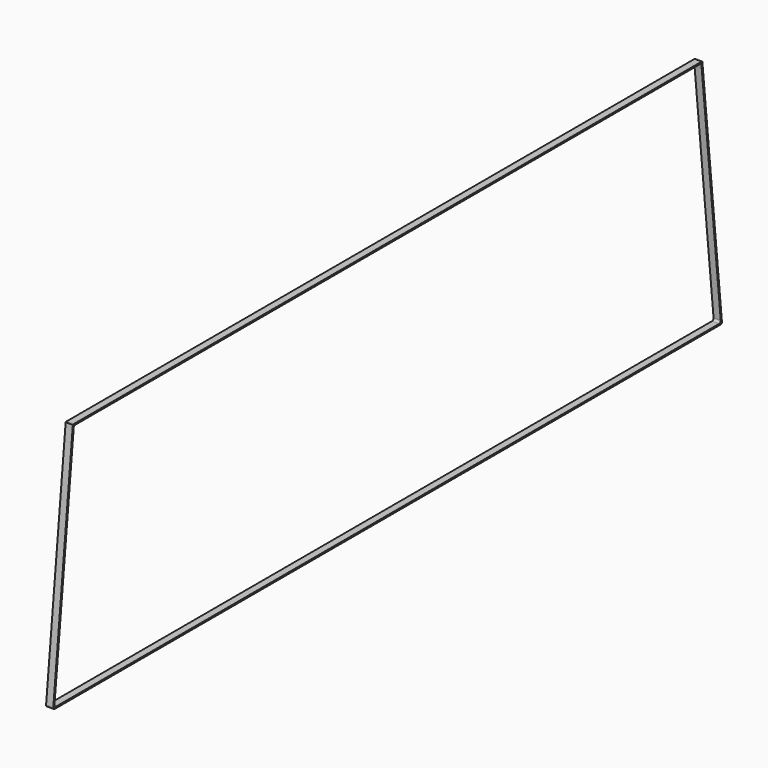
from build123d import *

# Parameters (mm, degrees)
F1_DEPTH = 10


with BuildPart() as f1:
    # F0 (on Right) → F1 (new body)
    with BuildSketch(Plane.YZ):
        with BuildLine():
            Line((0, 169.997969), (-545, 169.997969))
            ThreePointArc((-545, 169.997969), (-545.791112, 169.869496), (-546.500916, 169.497282))
            Line((-546.500916, 169.497282), (-580.486552, -162.243075))
            ThreePointArc((-580.486552, -162.243075), (-579.857066, -164.175741), (-578, -165.002031))
            Line((-578, -165.002031), (0, -165.002031))
            Line((0, -165.002031), (578, -165.002031))
            ThreePointArc((578, -165.002031), (579.857066, -164.175741), (580.486552, -162.243075))
            Line((580.486552, -162.243075), (546.500916, 169.497282))
            ThreePointArc((546.500916, 169.497282), (545.791112, 169.869496), (545, 169.997969))
            Line((545, 169.997969), (0, 169.997969))
        make_face()
        with BuildLine():
            ThreePointArc((-544.85201, 167.177272), (-544.012853, 167.783604), (-543, 167.997969))
            Line((-543, 167.997969), (0, 167.997969))
            Line((0, 167.997969), (543, 167.997969))
            ThreePointArc((543, 167.997969), (544.012853, 167.783604), (544.85201, 167.177272))
            Line((544.85201, 167.177272), (578.495435, -160.350358))
            ThreePointArc((578.495435, -160.350358), (577.820373, -162.214911), (576, -163.001364))
            Line((576, -163.001364), (0, -163.001364))
            Line((0, -163.001364), (-576, -163.001364))
            ThreePointArc((-576, -163.001364), (-577.820373, -162.214911), (-578.495435, -160.350358))
            Line((-578.495435, -160.350358), (-544.85201, 167.177272))
        make_face(mode=Mode.SUBTRACT)
    extrude(amount=F1_DEPTH)


solid = f1.part
